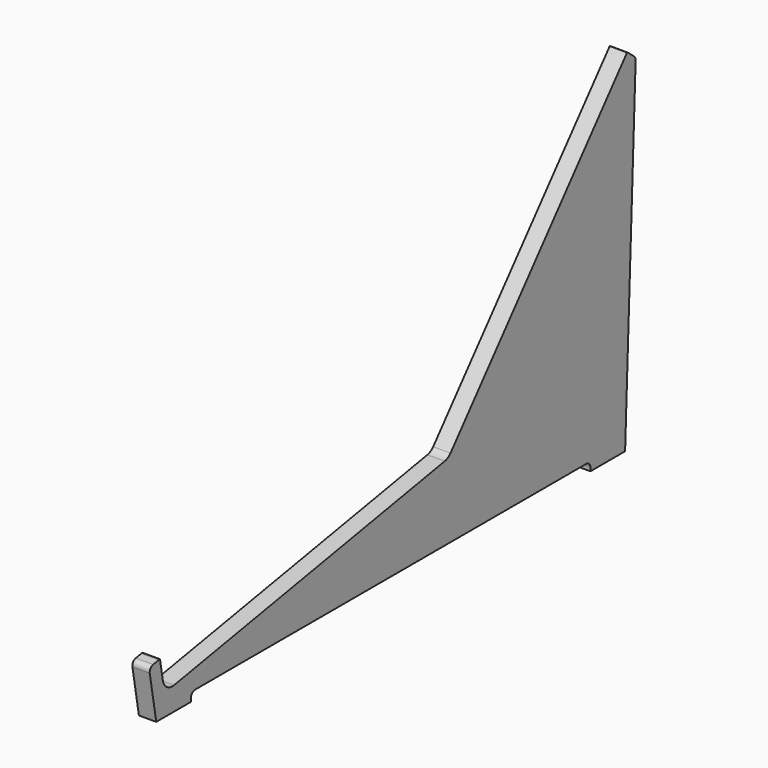
from build123d import *

# Parameters (mm, degrees)
F1_DEPTH = 10
F2_W     = 288.033763
F2_H     = 5
F3_DEPTH = 10.001
F4_R     = 3
F5_R     = 5
F7_DEPTH = 25


with BuildPart() as f1:
    # F0 (on Right) → F1 (new body)
    with BuildSketch(Plane.YZ):
        Polygon((-343.243208, 29.544233), (-338.033763, 0), (0, 0), (7.660444, 196.917872), (0, 203.345748), (-128.557522, 50.136859), (-330.443111, 14.538983), (-333.39513, 31.280714), align=None)
    extrude(amount=F1_DEPTH)

    # F2 (on face) → F3 (cut, through all)
    with BuildSketch(Plane.YZ.offset(10)):
        with Locations((-169.016881, 2.5)):
            Rectangle(F2_W, F2_H)
    extrude(amount=-F3_DEPTH, mode=Mode.SUBTRACT)

    # F4
    f4_edges = [f1.edges().sort_by_distance(p)[0] for p in [
        (5, 0, 203.345748),
        (5, 7.660444, 196.917872),
        (5, -25, 5),
        (5, -313.033763, 5),
        (5, -333.39513, 31.280714),
        (5, -343.243208, 29.544233),
    ]]
    fillet(f4_edges, radius=F4_R)

    # F5
    f5_edges = [f1.edges().sort_by_distance(p)[0] for p in [
        (5, -330.443111, 14.538983),
        (5, -128.557522, 50.136859),
    ]]
    fillet(f5_edges, radius=F5_R)

    # F6 (on face) → F7 (cut)
    with BuildSketch(Plane.YZ.offset(10)):
        with BuildLine():
            Line((-336.349554, 36.51854), (-333.280968, 19.115725))
            ThreePointArc((-333.280968, 19.115725), (-330.402348, 14.597198), (-325.171776, 13.437608))
            Line((-325.171776, 13.437608), (-130.002429, 47.85123))
            ThreePointArc((-130.002429, 47.85123), (-127.717966, 48.682706), (-125.855655, 50.245371))
            Line((-125.855655, 50.245371), (5.131385, 206.349646))
            Line((5.131385, 206.349646), (-336.349554, 36.51854))
        make_face()
    extrude(amount=-F7_DEPTH, mode=Mode.SUBTRACT)


solid = f1.part
